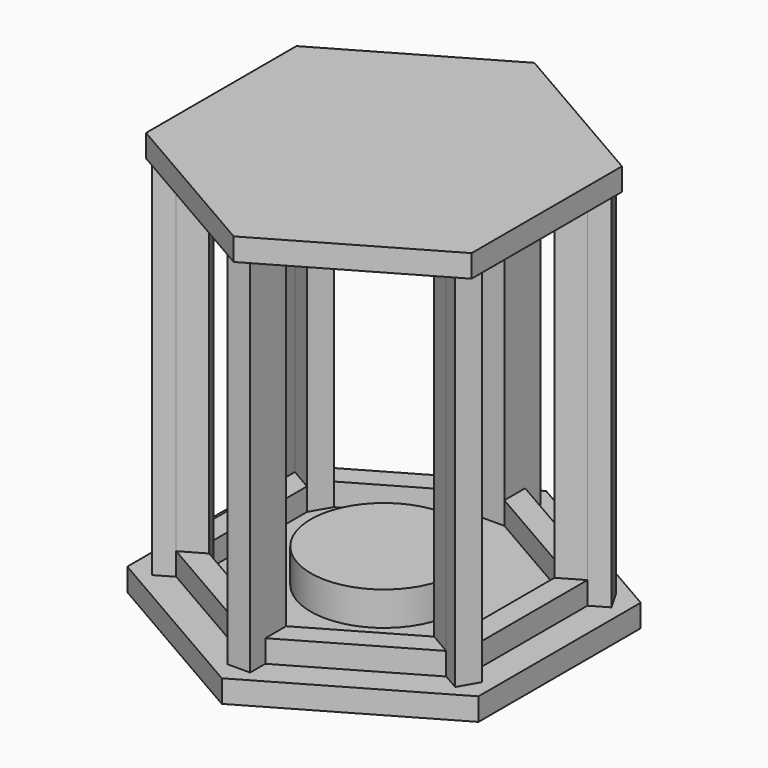
from build123d import *

# Parameters (mm, degrees)
F0_R     = 41.275
F1_DEPTH = 12.7
F2_DEPTH = 25.4
F3_DEPTH = 215.9
F4_DEPTH = 31.75
F5_W     = 12.7
F5_H     = 25.4
F6_DEPTH = 12.7


with BuildPart() as f1:
    # F0 (on Top) → F1 (new body)
    with BuildSketch(Plane.XY):
        Polygon((98.9867036526, -57.15), (98.9867036526, 57.15), (0, 114.3), (-98.9867036526, 57.15), (-98.9867036526, -57.15), (0, -114.3), align=None)
        Polygon((91.7501829945, 45.6396444314), (82.4531377384, 40.2719928501), (82.4531377384, -40.2719928501), (91.7501829945, -45.6396444314), (85.4001829945, -56.6381670594), (76.1031377384, -51.2705154782), (6.35, -91.5425083282), (6.35, -102.2778114908), (-6.35, -102.2778114908), (-6.35, -91.5425083282), (-76.1031377384, -51.2705154782), (-85.4001829945, -56.6381670594), (-91.7501829945, -45.6396444314), (-82.4531377384, -40.2719928501), (-82.4531377384, 40.2719928501), (-91.7501829945, 45.6396444314), (-85.4001829945, 56.6381670594), (-76.1031377384, 51.2705154782), (-6.35, 91.5425083282), (-6.35, 102.2778114908), (6.35, 102.2778114908), (6.35, 91.5425083282), (76.1031377384, 51.2705154782), (85.4001829945, 56.6381670594), align=None, mode=Mode.SUBTRACT)
        Polygon((69.7531377384, -32.9396444314), (69.7531377384, 32.9396444314), (63.4031377384, 43.9381670594), (6.35, 76.8778114908), (-6.35, 76.8778114908), (-63.4031377384, 43.9381670594), (-69.7531377384, 32.9396444314), (-69.7531377384, -32.9396444314), (-63.4031377384, -43.9381670594), (-6.35, -76.8778114908), (6.35, -76.8778114908), (63.4031377384, -43.9381670594), align=None)
        Circle(F0_R, mode=Mode.SUBTRACT)
        Circle(F0_R)
        Polygon((63.4031377384, 43.9381670594), (76.1031377384, 51.2705154782), (6.35, 91.5425083282), (6.35, 76.8778114908), align=None)
        Polygon((6.35, -91.5425083282), (76.1031377384, -51.2705154782), (63.4031377384, -43.9381670594), (6.35, -76.8778114908), align=None)
        Polygon((82.4531377384, -40.2719928501), (82.4531377384, 40.2719928501), (69.7531377384, 32.9396444314), (69.7531377384, -32.9396444314), align=None)
        Polygon((-6.35, 76.8778114908), (-6.35, 91.5425083282), (-76.1031377384, 51.2705154782), (-63.4031377384, 43.9381670594), align=None)
        Polygon((-69.7531377384, -32.9396444314), (-69.7531377384, 32.9396444314), (-82.4531377384, 40.2719928501), (-82.4531377384, -40.2719928501), align=None)
        Polygon((-6.35, -91.5425083282), (-6.35, -76.8778114908), (-63.4031377384, -43.9381670594), (-76.1031377384, -51.2705154782), align=None)
        Polygon((82.4531377384, 40.2719928501), (82.4531377384, 47.6043412688), (76.1031377384, 51.2705154782), (63.4031377384, 43.9381670594), (69.7531377384, 40.2719928501), (69.7531377384, 32.9396444314), align=None)
        Polygon((0, -95.2086825376), (6.35, -91.5425083282), (6.35, -76.8778114908), (0, -80.5439857002), (-6.35, -76.8778114908), (-6.35, -91.5425083282), align=None)
        Polygon((82.4531377384, -47.6043412688), (82.4531377384, -40.2719928501), (69.7531377384, -32.9396444314), (69.7531377384, -40.2719928501), (63.4031377384, -43.9381670594), (76.1031377384, -51.2705154782), align=None)
        Polygon((6.35, 76.8778114908), (6.35, 91.5425083282), (0, 95.2086825376), (-6.35, 91.5425083282), (-6.35, 76.8778114908), (0, 80.5439857002), align=None)
        Polygon((-63.4031377384, 43.9381670594), (-76.1031377384, 51.2705154782), (-82.4531377384, 47.6043412688), (-82.4531377384, 40.2719928501), (-69.7531377384, 32.9396444314), (-69.7531377384, 40.2719928501), align=None)
        Polygon((-76.1031377384, -51.2705154782), (-63.4031377384, -43.9381670594), (-69.7531377384, -40.2719928501), (-69.7531377384, -32.9396444314), (-82.4531377384, -40.2719928501), (-82.4531377384, -47.6043412688), align=None)
        Polygon((76.1031377384, 51.2705154782), (82.4531377384, 47.6043412688), (82.4531377384, 40.2719928501), (91.7501829945, 45.6396444314), (85.4001829945, 56.6381670594), align=None)
        Polygon((91.7501829945, -45.6396444314), (82.4531377384, -40.2719928501), (82.4531377384, -47.6043412688), (76.1031377384, -51.2705154782), (85.4001829945, -56.6381670594), align=None)
        Polygon((6.35, -102.2778114908), (6.35, -91.5425083282), (0, -95.2086825376), (-6.35, -91.5425083282), (-6.35, -102.2778114908), align=None)
        Polygon((0, 95.2086825376), (6.35, 91.5425083282), (6.35, 102.2778114908), (-6.35, 102.2778114908), (-6.35, 91.5425083282), align=None)
        Polygon((-82.4531377384, 47.6043412688), (-76.1031377384, 51.2705154782), (-85.4001829945, 56.6381670594), (-91.7501829945, 45.6396444314), (-82.4531377384, 40.2719928501), align=None)
        Polygon((-85.4001829945, -56.6381670594), (-76.1031377384, -51.2705154782), (-82.4531377384, -47.6043412688), (-82.4531377384, -40.2719928501), (-91.7501829945, -45.6396444314), align=None)
        Polygon((0, -80.5439857002), (6.35, -76.8778114908), (-6.35, -76.8778114908), align=None)
        Polygon((-6.35, 76.8778114908), (6.35, 76.8778114908), (0, 80.5439857002), align=None)
        Polygon((69.7531377384, -40.2719928501), (69.7531377384, -32.9396444314), (63.4031377384, -43.9381670594), align=None)
        Polygon((-69.7531377384, 32.9396444314), (-63.4031377384, 43.9381670594), (-69.7531377384, 40.2719928501), align=None)
        Polygon((-69.7531377384, -40.2719928501), (-63.4031377384, -43.9381670594), (-69.7531377384, -32.9396444314), align=None)
        Polygon((63.4031377384, 43.9381670594), (69.7531377384, 32.9396444314), (69.7531377384, 40.2719928501), align=None)
    extrude(amount=F1_DEPTH)


with BuildPart() as f2:
    # F0 (on Top) → F2 (new body)
    with BuildSketch(Plane.XY):
        Polygon((-69.7531377384, -32.9396444314), (-69.7531377384, 32.9396444314), (-82.4531377384, 40.2719928501), (-82.4531377384, -40.2719928501), align=None)
    extrude(amount=F2_DEPTH)


with BuildPart() as f2b:
    # F0 (on Top) → F2, piece 2 (new body)
    with BuildSketch(Plane.XY):
        Polygon((-6.35, 76.8778114908), (-6.35, 91.5425083282), (-76.1031377384, 51.2705154782), (-63.4031377384, 43.9381670594), align=None)
    extrude(amount=F2_DEPTH)


with BuildPart() as f2c:
    # F0 (on Top) → F2, piece 3 (new body)
    with BuildSketch(Plane.XY):
        Polygon((63.4031377384, 43.9381670594), (76.1031377384, 51.2705154782), (6.35, 91.5425083282), (6.35, 76.8778114908), align=None)
    extrude(amount=F2_DEPTH)


with BuildPart() as f2d:
    # F0 (on Top) → F2, piece 4 (new body)
    with BuildSketch(Plane.XY):
        Polygon((82.4531377384, -40.2719928501), (82.4531377384, 40.2719928501), (69.7531377384, 32.9396444314), (69.7531377384, -32.9396444314), align=None)
    extrude(amount=F2_DEPTH)


with BuildPart() as f2e:
    # F0 (on Top) → F2, piece 5 (new body)
    with BuildSketch(Plane.XY):
        Polygon((6.35, -91.5425083282), (76.1031377384, -51.2705154782), (63.4031377384, -43.9381670594), (6.35, -76.8778114908), align=None)
    extrude(amount=F2_DEPTH)


with BuildPart() as f2f:
    # F0 (on Top) → F2, piece 6 (new body)
    with BuildSketch(Plane.XY):
        Polygon((-6.35, -91.5425083282), (-6.35, -76.8778114908), (-63.4031377384, -43.9381670594), (-76.1031377384, -51.2705154782), align=None)
    extrude(amount=F2_DEPTH)


with BuildPart() as f3:
    # F0 (on Top) → F3 (new body)
    with BuildSketch(Plane.XY):
        Polygon((-82.4531377384, 47.6043412688), (-76.1031377384, 51.2705154782), (-85.4001829945, 56.6381670594), (-91.7501829945, 45.6396444314), (-82.4531377384, 40.2719928501), align=None)
        Polygon((-63.4031377384, 43.9381670594), (-76.1031377384, 51.2705154782), (-82.4531377384, 47.6043412688), (-82.4531377384, 40.2719928501), (-69.7531377384, 32.9396444314), (-69.7531377384, 40.2719928501), align=None)
        Polygon((-69.7531377384, 32.9396444314), (-63.4031377384, 43.9381670594), (-69.7531377384, 40.2719928501), align=None)
    extrude(amount=F3_DEPTH)


with BuildPart() as f3b:
    # F0 (on Top) → F3, piece 2 (new body)
    with BuildSketch(Plane.XY):
        Polygon((-69.7531377384, -40.2719928501), (-63.4031377384, -43.9381670594), (-69.7531377384, -32.9396444314), align=None)
        Polygon((-76.1031377384, -51.2705154782), (-63.4031377384, -43.9381670594), (-69.7531377384, -40.2719928501), (-69.7531377384, -32.9396444314), (-82.4531377384, -40.2719928501), (-82.4531377384, -47.6043412688), align=None)
        Polygon((-85.4001829945, -56.6381670594), (-76.1031377384, -51.2705154782), (-82.4531377384, -47.6043412688), (-82.4531377384, -40.2719928501), (-91.7501829945, -45.6396444314), align=None)
    extrude(amount=F3_DEPTH)


with BuildPart() as f3c:
    # F0 (on Top) → F3, piece 3 (new body)
    with BuildSketch(Plane.XY):
        Polygon((0, 95.2086825376), (6.35, 91.5425083282), (6.35, 102.2778114908), (-6.35, 102.2778114908), (-6.35, 91.5425083282), align=None)
        Polygon((6.35, 76.8778114908), (6.35, 91.5425083282), (0, 95.2086825376), (-6.35, 91.5425083282), (-6.35, 76.8778114908), (0, 80.5439857002), align=None)
        Polygon((-6.35, 76.8778114908), (6.35, 76.8778114908), (0, 80.5439857002), align=None)
    extrude(amount=F3_DEPTH)


with BuildPart() as f3d:
    # F0 (on Top) → F3, piece 4 (new body)
    with BuildSketch(Plane.XY):
        Polygon((76.1031377384, 51.2705154782), (82.4531377384, 47.6043412688), (82.4531377384, 40.2719928501), (91.7501829945, 45.6396444314), (85.4001829945, 56.6381670594), align=None)
        Polygon((82.4531377384, 40.2719928501), (82.4531377384, 47.6043412688), (76.1031377384, 51.2705154782), (63.4031377384, 43.9381670594), (69.7531377384, 40.2719928501), (69.7531377384, 32.9396444314), align=None)
        Polygon((63.4031377384, 43.9381670594), (69.7531377384, 32.9396444314), (69.7531377384, 40.2719928501), align=None)
    extrude(amount=F3_DEPTH)


with BuildPart() as f3e:
    # F0 (on Top) → F3, piece 5 (new body)
    with BuildSketch(Plane.XY):
        Polygon((69.7531377384, -40.2719928501), (69.7531377384, -32.9396444314), (63.4031377384, -43.9381670594), align=None)
        Polygon((82.4531377384, -47.6043412688), (82.4531377384, -40.2719928501), (69.7531377384, -32.9396444314), (69.7531377384, -40.2719928501), (63.4031377384, -43.9381670594), (76.1031377384, -51.2705154782), align=None)
        Polygon((91.7501829945, -45.6396444314), (82.4531377384, -40.2719928501), (82.4531377384, -47.6043412688), (76.1031377384, -51.2705154782), (85.4001829945, -56.6381670594), align=None)
    extrude(amount=F3_DEPTH)


with BuildPart() as f3f:
    # F0 (on Top) → F3, piece 6 (new body)
    with BuildSketch(Plane.XY):
        Polygon((0, -80.5439857002), (6.35, -76.8778114908), (-6.35, -76.8778114908), align=None)
        Polygon((0, -95.2086825376), (6.35, -91.5425083282), (6.35, -76.8778114908), (0, -80.5439857002), (-6.35, -76.8778114908), (-6.35, -91.5425083282), align=None)
        Polygon((6.35, -102.2778114908), (6.35, -91.5425083282), (0, -95.2086825376), (-6.35, -91.5425083282), (-6.35, -102.2778114908), align=None)
    extrude(amount=F3_DEPTH)


with BuildPart() as f4:
    # F0 (on Top) → F4 (new body)
    with BuildSketch(Plane.XY):
        Circle(F0_R)
    extrude(amount=F4_DEPTH)


with BuildPart() as f6:
    # F5 (on face) → F6 (new body)
    with BuildSketch(Plane.XY.offset(215.9)):
        with Locations((0, 89.5778114908)):
            Rectangle(F5_W, F5_H)
        Polygon((91.7501829945, -52.9719928501), (91.7501829945, 52.9719928501), (6.35, 102.2778114908), (6.35, 76.8778114908), (-6.35, 76.8778114908), (-6.35, 102.2778114908), (-91.7501829945, 52.9719928501), (-91.7501829945, -52.9719928501), (0, -105.9439857002), align=None)
        Polygon((-6.35, 102.2778114908), (6.35, 102.2778114908), (0, 105.9439857002), align=None)
    extrude(amount=F6_DEPTH)


solid = Compound([f1.part, f2.part, f2b.part, f2c.part, f2d.part, f2e.part, f2f.part, f3.part, f3b.part, f3c.part, f3d.part, f3e.part, f3f.part, f4.part, f6.part])
